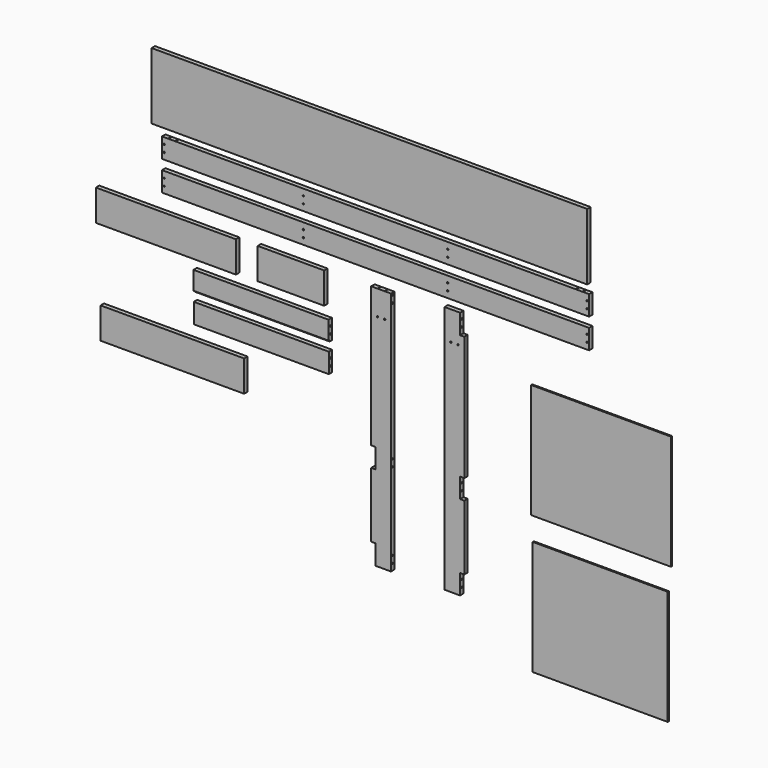
from build123d import *

# Parameters (mm, degrees)
F0_W      = 69.85
F0_H      = 88.9
F2_DEPTH  = 19.05
F1_W      = 69.85
F1_H      = 88.9
F3_DEPTH  = 19.05
F5_D      = 6.35
F5_DEPTH  = 25.4
F5_TIP    = 1.9077324654
F7_D      = 6.35
F7_DEPTH  = 25.4
F7_TIP    = 1.9077324654
F9_D      = 6.35
F9_DEPTH  = 19.05
F9_TIP    = 1.9077324654
F11_D     = 6.35
F11_DEPTH = 25.4
F11_TIP   = 1.9077324654
F13_D     = 6.35
F13_DEPTH = 19.05
F13_TIP   = 1.9077324654
F15_D     = 6.35
F15_DEPTH = 19.05
F15_TIP   = 1.9077324654
F17_D     = 6.35
F17_DEPTH = 19.05
F17_TIP   = 1.9077324654
F19_D     = 6.35
F19_DEPTH = 19.05
F19_TIP   = 1.9077324654
F20_W     = 1917.7
F20_H     = 88.9
F21_DEPTH = 19.05
F22_D     = 6.35
F23_W     = 1917.7
F23_H     = 88.9
F24_DEPTH = 19.05
F25_D     = 6.35
F27_D     = 6.35
F27_DEPTH = 19.05
F27_TIP   = 1.9077324654
F28_W     = 298.45
F28_H     = 139.7
F29_DEPTH = 19.05
F30_D     = 6.35
F31_W     = 606.425
F31_H     = 82.55
F32_DEPTH = 19.05
F34_D     = 6.35
F34_DEPTH = 19.05
F34_TIP   = 1.9077324654
F36_D     = 6.35
F36_DEPTH = 19.05
F36_TIP   = 1.9077324654
F37_D     = 6.35
F31_H_2   = 6.35
F39_DEPTH = 12.7
F40_D     = 6.35
F40_DEPTH = 19.05
F40_TIP   = 1.9077324654
F41_D     = 6.35
F41_DEPTH = 19.05
F41_TIP   = 1.9077324654
F38_W     = 606.425
F38_H     = 88.9
F42_DEPTH = 19.05
F44_D     = 6.35
F44_DEPTH = 19.05
F44_TIP   = 1.9077324654
F46_D     = 6.35
F46_DEPTH = 19.05
F46_TIP   = 1.9077324654
F47_W     = 1955.8
F47_H     = 298.45
F48_DEPTH = 19.05
F49_D     = 6.35
F49_DEPTH = 12.7
F49_TIP   = 1.9077324654
F50_W     = 628.65
F50_H     = 139.7
F51_DEPTH = 19.05
F52_W     = 628.65
F52_H     = 514.35
F53_DEPTH = 6.35
F54_W     = 606.425
F54_H     = 514.35
F55_DEPTH = 6.35
F56_W     = 644.525
F56_H     = 139.7
F57_DEPTH = 19.05


with BuildPart() as f2:
    # F0 (on Front) → F2 (new body)
    with BuildSketch(Plane.XZ):
        Polygon((-0.4233333333, -505.46), (-0.4233333333, -594.36), (69.4266666667, -594.36), (69.4266666667, -213.36), (-0.4233333333, -213.36), (-19.4733333333, -213.36), (-19.4733333333, -505.46), align=None)
        with Locations((34.5016666667, -168.91)):
            Rectangle(F0_W, F0_H)
        Polygon((-0.4233333333, -124.46), (69.4266666667, -124.46), (69.4266666667, 504.19), (-19.4733333333, 504.19), (-19.4733333333, -124.46), align=None)
    extrude(amount=F2_DEPTH)

    # F5
    with Locations(Plane(origin=(-0.4233333333, 0, 0), x_dir=(0, -1, 0), z_dir=(-1, 0, 0))):
        with Locations((9.525, -534.035), (9.525, -565.785)):
            Hole(F5_D / 2, depth=F5_DEPTH)
            with Locations((0, 0, -(F5_DEPTH + F5_TIP / 2))):  # 118° drill point
                Cone(0, F5_D / 2, F5_TIP, mode=Mode.SUBTRACT)

    # F7
    with Locations(Plane(origin=(-0.4233333333, 0, 0), x_dir=(0, -1, 0), z_dir=(-1, 0, 0))):
        with Locations((9.525, -153.035), (9.525, -184.785)):
            Hole(F7_D / 2, depth=F7_DEPTH)
            with Locations((0, 0, -(F7_DEPTH + F7_TIP / 2))):  # 118° drill point
                Cone(0, F7_D / 2, F7_TIP, mode=Mode.SUBTRACT)

    # F9
    with Locations(Plane.YZ.offset(69.4266666667)):
        with Locations((-9.525, 494.665), (-9.525, 462.915), (-9.525, -565.785), (-9.525, -534.035), (-9.525, -184.785), (-9.525, -153.035)):
            Hole(F9_D / 2, depth=F9_DEPTH)
            with Locations((0, 0, -(F9_DEPTH + F9_TIP / 2))):  # 118° drill point
                Cone(0, F9_D / 2, F9_TIP, mode=Mode.SUBTRACT)

    # F11
    with Locations(Plane.XY.offset(504.19)):
        with Locations((9.1016666667, -9.525), (40.8516666667, -9.525)):
            Hole(F11_D / 2, depth=F11_DEPTH)
            with Locations((0, 0, -(F11_DEPTH + F11_TIP / 2))):  # 118° drill point
                Cone(0, F11_D / 2, F11_TIP, mode=Mode.SUBTRACT)

    # F30 (through all)
    with Locations(Plane(origin=(0, 0, 0), x_dir=(1, 0, 0), z_dir=(0, 1, 0))):
        with Locations((9.1016666667, -393.065), (40.8516666667, -393.065)):
            Hole(F30_D / 2)


with BuildPart() as f3:
    # F1 (on Front) → F3 (new body)
    with BuildSketch(Plane.XZ):
        Polygon((309.7379428343, -207.1744832849), (309.7379428343, -588.1744832849), (379.5879428343, -588.1744832849), (379.5879428343, -499.2744832849), (398.6379428343, -499.2744832849), (398.6379428343, -207.1744832849), (379.5879428343, -207.1744832849), align=None)
        with Locations((344.6629428343, -162.7244832849)):
            Rectangle(F1_W, F1_H)
        Polygon((309.7379428343, 529.425516715), (309.7379428343, -118.2744832849), (379.5879428343, -118.2744832849), (398.6379428343, -118.2744832849), (398.6379428343, 440.525516715), (379.5879428343, 440.525516715), (379.5879428343, 529.425516715), align=None)
        Polygon((309.7379428343, -207.1744832849), (309.7379428343, -588.1744832849), (379.5879428343, -588.1744832849), (379.5879428343, -499.2744832849), (398.6379428343, -499.2744832849), (398.6379428343, -207.1744832849), (379.5879428343, -207.1744832849), align=None)
        Polygon((309.7379428343, 529.425516715), (309.7379428343, -118.2744832849), (379.5879428343, -118.2744832849), (398.6379428343, -118.2744832849), (398.6379428343, 440.525516715), (379.5879428343, 440.525516715), (379.5879428343, 529.425516715), align=None)
    extrude(amount=F3_DEPTH)

    # F13
    with Locations(Plane.YZ.offset(379.5879428343)):
        with Locations((-9.525, 500.850516715), (-9.525, 469.100516715)):
            Hole(F13_D / 2, depth=F13_DEPTH)
            with Locations((0, 0, -(F13_DEPTH + F13_TIP / 2))):  # 118° drill point
                Cone(0, F13_D / 2, F13_TIP, mode=Mode.SUBTRACT)

    # F15
    with Locations(Plane.YZ.offset(379.5879428343)):
        with Locations((-9.525, -146.8494832849), (-9.525, -178.5994832849)):
            Hole(F15_D / 2, depth=F15_DEPTH)
            with Locations((0, 0, -(F15_DEPTH + F15_TIP / 2))):  # 118° drill point
                Cone(0, F15_D / 2, F15_TIP, mode=Mode.SUBTRACT)

    # F17
    with Locations(Plane.YZ.offset(379.5879428343)):
        with Locations((-9.525, -527.8494832849), (-9.525, -559.5994832849)):
            Hole(F17_D / 2, depth=F17_DEPTH)
            with Locations((0, 0, -(F17_DEPTH + F17_TIP / 2))):  # 118° drill point
                Cone(0, F17_D / 2, F17_TIP, mode=Mode.SUBTRACT)

    # F19
    with Locations(Plane(origin=(309.7379428343, 0, 0), x_dir=(0, -1, 0), z_dir=(-1, 0, 0))):
        with Locations((9.525, -559.5994832849), (9.525, -527.8494832849), (9.525, -146.8494832849), (9.525, -178.5994832849), (9.525, 500.850516715), (9.525, 469.100516715)):
            Hole(F19_D / 2, depth=F19_DEPTH)
            with Locations((0, 0, -(F19_DEPTH + F19_TIP / 2))):  # 118° drill point
                Cone(0, F19_D / 2, F19_TIP, mode=Mode.SUBTRACT)

    # F37 (through all)
    with Locations(Plane(origin=(0, 0, 0), x_dir=(1, 0, 0), z_dir=(0, 1, 0))):
        with Locations((338.3129428343, -399.250516715), (370.0629428343, -399.250516715)):
            Hole(F37_D / 2)


with BuildPart() as f21:
    # F20 (on Front) → F21 (new body)
    with BuildSketch(Plane.XZ):
        with Locations((0.0007055556, 613.3470088243)):
            Rectangle(F20_W, F20_H)
    extrude(amount=F21_DEPTH)

    # F22 (through all)
    with Locations(Plane(origin=(0, 0, 0), x_dir=(1, 0, 0), z_dir=(0, 1, 0))):
        with Locations((-949.3242944444, -629.2220088243), (-949.3242944444, -597.4720088243), (-323.8492944444, -629.2220088243), (-323.8492944444, -597.4720088243), (323.8507055556, -629.2220088243), (323.8507055556, -597.4720088243), (949.3257055556, -629.2220088243), (949.3257055556, -597.4720088243)):
            Hole(F22_D / 2)


with BuildPart() as f24:
    # F23 (on Front) → F24 (new body)
    with BuildSketch(Plane.XZ):
        with Locations((0, 746.6260455549)):
            Rectangle(F23_W, F23_H)
    extrude(amount=F24_DEPTH)

    # F25 (through all)
    with Locations(Plane(origin=(0, 0, 0), x_dir=(1, 0, 0), z_dir=(0, 1, 0))):
        with Locations((-949.325, -762.5010455549), (-949.325, -730.7510455549), (-323.85, -762.5010455549), (-323.85, -730.7510455549), (323.85, -762.5010455549), (323.85, -730.7510455549), (949.325, -730.7510455549), (949.325, -762.5010455549)):
            Hole(F25_D / 2)

    # F27
    with Locations(Plane.XY.offset(791.0760455549)):
        with Locations((-930.275, -9.525), (-898.525, -9.525), (898.525, -9.525), (930.275, -9.525)):
            Hole(F27_D / 2, depth=F27_DEPTH)
            with Locations((0, 0, -(F27_DEPTH + F27_TIP / 2))):  # 118° drill point
                Cone(0, F27_D / 2, F27_TIP, mode=Mode.SUBTRACT)


with BuildPart() as f29:
    # F28 (on Front) → F29 (new body)
    with BuildSketch(Plane.XZ):
        with Locations((-379.8788373232, 428.1516395569)):
            Rectangle(F28_W, F28_H)
    extrude(amount=F29_DEPTH)


with BuildPart() as f32:
    # F31 (on Front) → F32 (new body)
    with BuildSketch(Plane.XZ):
        with Locations((-514.2156396151, 268.4164292812)):
            Rectangle(F31_W, F31_H)
    extrude(amount=F32_DEPTH)

    # F34
    with Locations(Plane(origin=(-817.4281396151, 0, 0), x_dir=(0, -1, 0), z_dir=(-1, 0, 0))):
        with Locations((9.525, 281.1164292812), (9.525, 281.1164292812)):
            Hole(F34_D / 2, depth=F34_DEPTH)
            with Locations((0, 0, -(F34_DEPTH + F34_TIP / 2))):  # 118° drill point
                Cone(0, F34_D / 2, F34_TIP, mode=Mode.SUBTRACT)

    # F36
    with Locations(Plane.YZ.offset(-211.0031396151)):
        with Locations((-9.525, 281.1164292812), (-9.525, 281.1164292812)):
            Hole(F36_D / 2, depth=F36_DEPTH)
            with Locations((0, 0, -(F36_DEPTH + F36_TIP / 2))):  # 118° drill point
                Cone(0, F36_D / 2, F36_TIP, mode=Mode.SUBTRACT)

    # F31 (on Front) → F39 (join)
    with BuildSketch(Plane.XZ):
        with Locations((-514.2156396151, 223.9664292812)):
            Rectangle(F31_W, F31_H_2)
    extrude(amount=F39_DEPTH)

    # F40
    with Locations(Plane(origin=(-817.4281396151, 0, 0), x_dir=(0, -1, 0), z_dir=(-1, 0, 0))):
        with Locations((9.525, 249.3664292812)):
            Hole(F40_D / 2, depth=F40_DEPTH)
            with Locations((0, 0, -(F40_DEPTH + F40_TIP / 2))):  # 118° drill point
                Cone(0, F40_D / 2, F40_TIP, mode=Mode.SUBTRACT)

    # F41
    with Locations(Plane.YZ.offset(-211.0031396151)):
        with Locations((-9.525, 249.3664292812)):
            Hole(F41_D / 2, depth=F41_DEPTH)
            with Locations((0, 0, -(F41_DEPTH + F41_TIP / 2))):  # 118° drill point
                Cone(0, F41_D / 2, F41_TIP, mode=Mode.SUBTRACT)


with BuildPart() as f42:
    # F38 (on Front) → F42 (new body)
    with BuildSketch(Plane.XZ):
        with Locations((-512.8172338009, 139.2734721303)):
            Rectangle(F38_W, F38_H)
    extrude(amount=F42_DEPTH)

    # F44
    with Locations(Plane.YZ.offset(-209.6047338009)):
        with Locations((-9.525, 155.1484721303), (-9.525, 123.3984721303)):
            Hole(F44_D / 2, depth=F44_DEPTH)
            with Locations((0, 0, -(F44_DEPTH + F44_TIP / 2))):  # 118° drill point
                Cone(0, F44_D / 2, F44_TIP, mode=Mode.SUBTRACT)

    # F46
    with Locations(Plane(origin=(-816.0297338009, 0, 0), x_dir=(0, -1, 0), z_dir=(-1, 0, 0))):
        with Locations((9.525, 155.1484721303), (9.525, 123.3984721303)):
            Hole(F46_D / 2, depth=F46_DEPTH)
            with Locations((0, 0, -(F46_DEPTH + F46_TIP / 2))):  # 118° drill point
                Cone(0, F46_D / 2, F46_TIP, mode=Mode.SUBTRACT)


with BuildPart() as f48:
    # F47 (on Front) → F48 (new body)
    with BuildSketch(Plane.XZ):
        with Locations((-27.5322399657, 975.8202731609)):
            Rectangle(F47_W, F47_H)
    extrude(amount=F48_DEPTH)

    # F49
    with Locations(Plane(origin=(0, 0, 0), x_dir=(1, 0, 0), z_dir=(0, 1, 0))):
        with Locations((-976.8572399657, -874.2202731609)):
            Hole(F49_D / 2, depth=F49_DEPTH)
            with Locations((0, 0, -(F49_DEPTH + F49_TIP / 2))):  # 118° drill point
                Cone(0, F49_D / 2, F49_TIP, mode=Mode.SUBTRACT)


with BuildPart() as f51:
    # F50 (on Front) → F51 (new body)
    with BuildSketch(Plane.XZ):
        with Locations((-941.2232387543, 422.5552104473)):
            Rectangle(F50_W, F50_H)
        with Locations((-941.2232387543, 422.5552104473)):
            Rectangle(F50_W, F50_H)
    extrude(amount=F51_DEPTH)


with BuildPart() as f53:
    # F52 (on Front) → F53 (new body)
    with BuildSketch(Plane.XZ):
        with Locations((1001.9219863892, 81.7758008718)):
            Rectangle(F52_W, F52_H)
    extrude(amount=F53_DEPTH)


with BuildPart() as f55:
    # F54 (on Front) → F55 (new body)
    with BuildSketch(Plane.XZ):
        with Locations((997.8888269424, -536.1715242386)):
            Rectangle(F54_W, F54_H)
    extrude(amount=F55_DEPTH)


with BuildPart() as f57:
    # F56 (on Front) → F57 (new body)
    with BuildSketch(Plane.XZ):
        with Locations((-912.214313221, -36.432748282)):
            Rectangle(F56_W, F56_H)
    extrude(amount=F57_DEPTH)


solid = Compound([f2.part, f3.part, f21.part, f24.part, f29.part, f32.part, f42.part, f48.part, f51.part, f53.part, f55.part, f57.part])
